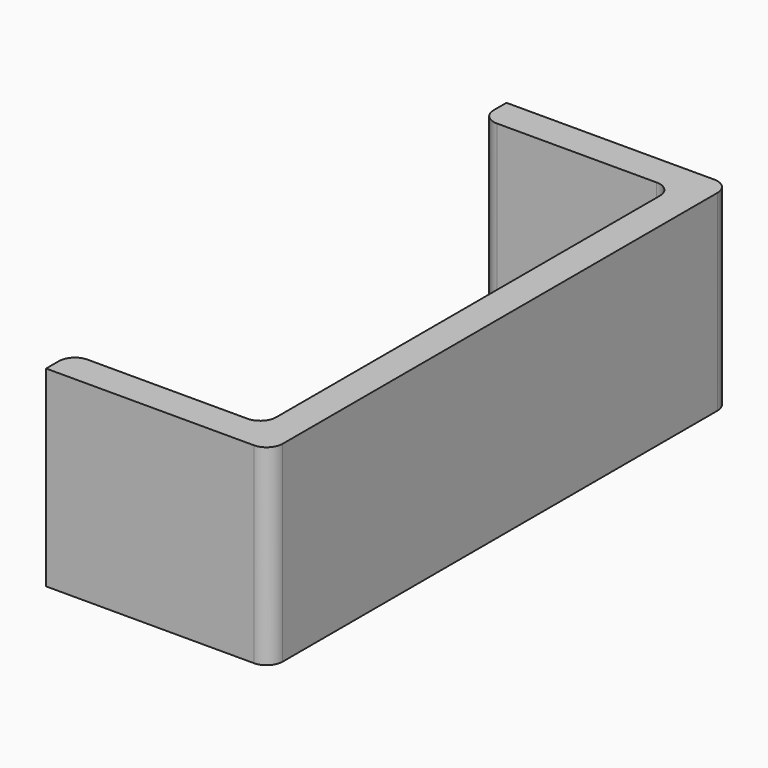
from build123d import *

# Parameters (mm, degrees)
F1_DEPTH = 30


with BuildPart() as f1:
    # F0 (on Top) → F1 (new body)
    with BuildSketch(Plane.XY):
        with BuildLine():
            Line((0, -47.071106), (0, 37.928894))
            ThreePointArc((0, 37.928894), (-0.732233, 39.696661), (-2.5, 40.428894))
            Line((-2.5, 40.428894), (-35, 40.428894))
            Line((-35, 40.428894), (-35, 37.928894))
            ThreePointArc((-35, 37.928894), (-34.267767, 36.161127), (-32.5, 35.428894))
            Line((-32.5, 35.428894), (-7.5, 35.428894))
            ThreePointArc((-7.5, 35.428894), (-5.732233, 34.696661), (-5, 32.928894))
            Line((-5, 32.928894), (-5, -42.071106))
            ThreePointArc((-5, -42.071106), (-5.732233, -43.838873), (-7.5, -44.571106))
            Line((-7.5, -44.571106), (-32.5, -44.571106))
            ThreePointArc((-32.5, -44.571106), (-34.267767, -45.303339), (-35, -47.071106))
            Line((-35, -47.071106), (-35, -49.571106))
            Line((-35, -49.571106), (-2.5, -49.571106))
            ThreePointArc((-2.5, -49.571106), (-0.732233, -48.838873), (0, -47.071106))
        make_face()
    extrude(amount=F1_DEPTH)


solid = f1.part
